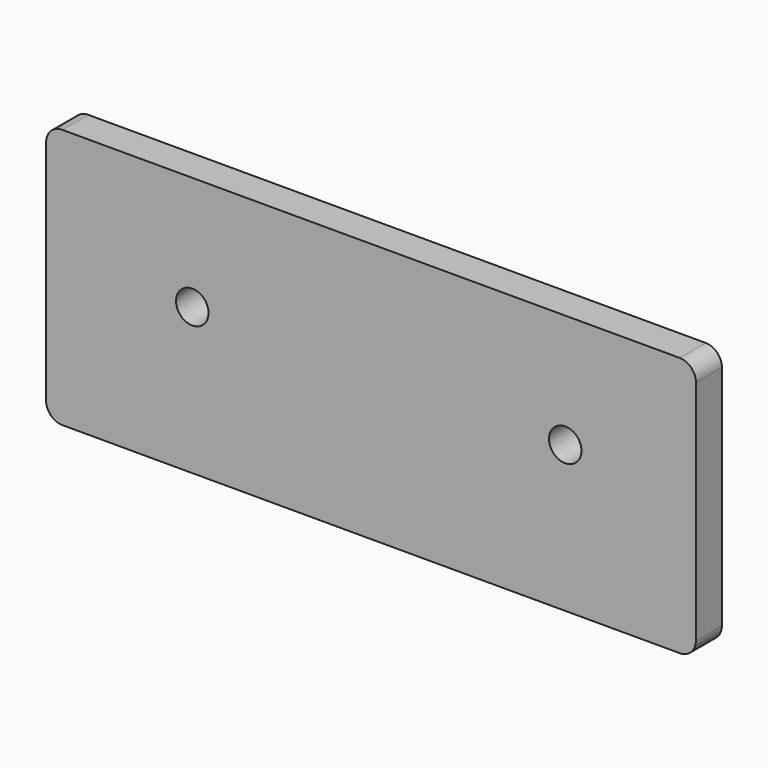
from build123d import *

# Parameters (mm, degrees)
F0_W     = 254
F0_H     = 101.6
F1_DEPTH = 12.7
F2_R     = 6.35
F3_R     = 6.35
F4_DEPTH = 203.2


with BuildPart() as f1:
    # F0 (on Front) → F1 (new body)
    with BuildSketch(Plane.XZ):
        with Locations((68.121064, 30.917156)):
            Rectangle(F0_W, F0_H)
    extrude(amount=F1_DEPTH)

    # F2
    f2_edges = [f1.edges().sort_by_distance(p)[0] for p in [
        (195.121064, -6.35, 81.717156),
        (-58.878936, -6.35, 81.717156),
        (195.121064, -6.35, -19.882844),
        (-58.878936, -6.35, -19.882844),
    ]]
    fillet(f2_edges, radius=F2_R)

    # F3 (on face) → F4 (cut)
    with BuildSketch(Plane.XZ.offset(12.7)):
        with Locations((-1.728936, 37.267156)):
            Circle(F3_R)
        with Locations((144.040808, 37.267156)):
            Circle(F3_R)
    extrude(amount=-F4_DEPTH, mode=Mode.SUBTRACT)


solid = f1.part
